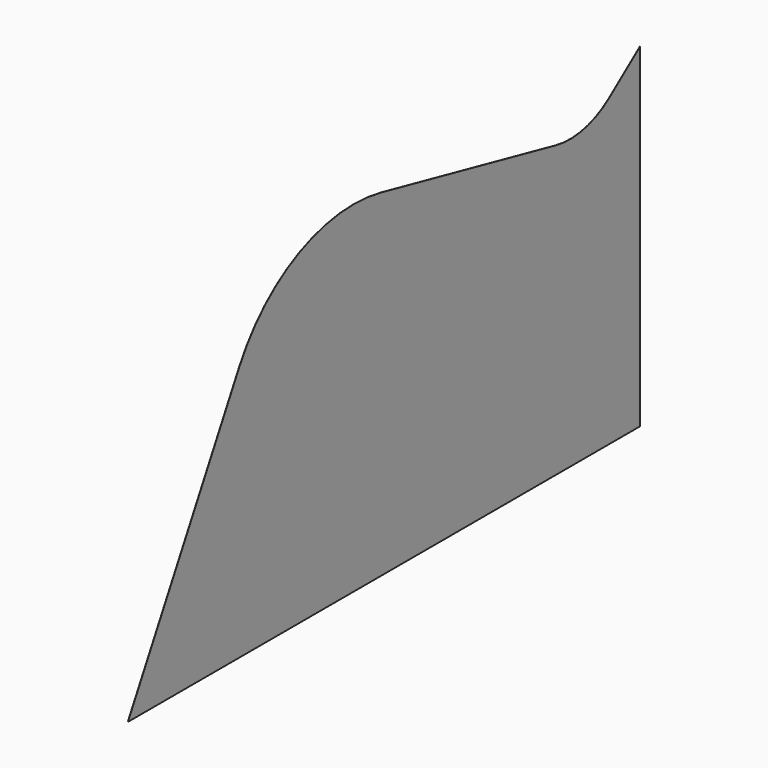
from build123d import *

# Parameters (mm, degrees)
F1_DEPTH = 1
F2_W     = 3225.491882
F2_H     = 2943.848134
F3_DEPTH = 1000


with BuildPart() as f1:
    # F0 (on Right) → F1 (new body)
    with BuildSketch(Plane.YZ):
        with BuildLine():
            Line((-3619.548968, -224.428496), (-4475.064898, -1796.920513))
            Line((-4475.064898, -1796.920513), (-25.064898, -1796.920513))
            Line((-25.064898, -1796.920513), (-25.064898, 277.382151))
            Line((-25.064898, 277.382151), (974.935102, 277.382151))
            Line((974.935102, 277.382151), (974.935102, -1796.920513))
            Line((974.935102, -1796.920513), (2424.935102, -1796.920513))
            Line((2424.935102, -1796.920513), (2424.935102, -362.4883))
            Line((2424.935102, -362.4883), (1982.259828, -186.180527))
            ThreePointArc((1982.259828, -186.180527), (1895.679419, -133.217027), (1831.714223, -54.41504))
            Line((1831.714223, -54.41504), (1558.403102, 432.061794))
            ThreePointArc((1558.403102, 432.061794), (886.565338, 922.050269), (76.44219, 734.553146))
            Line((76.44219, 734.553146), (-777.057597, 77.293825))
            ThreePointArc((-777.057597, 77.293825), (-972.237984, -14.33178), (-1187.852902, -15.249356))
            Line((-1187.852902, -15.249356), (-2529.676211, 275.056589))
            ThreePointArc((-2529.676211, 275.056589), (-3157.762827, 206.74725), (-3619.548968, -224.428496))
        make_face()
    extrude(amount=F1_DEPTH)

    # F2 (on face) → F3 (cut)
    with BuildSketch(Plane.YZ.offset(1)):
        with Locations((1070.679009, -398.968339)):
            Rectangle(F2_W, F2_H)
    extrude(amount=-F3_DEPTH, mode=Mode.SUBTRACT)


solid = f1.part
